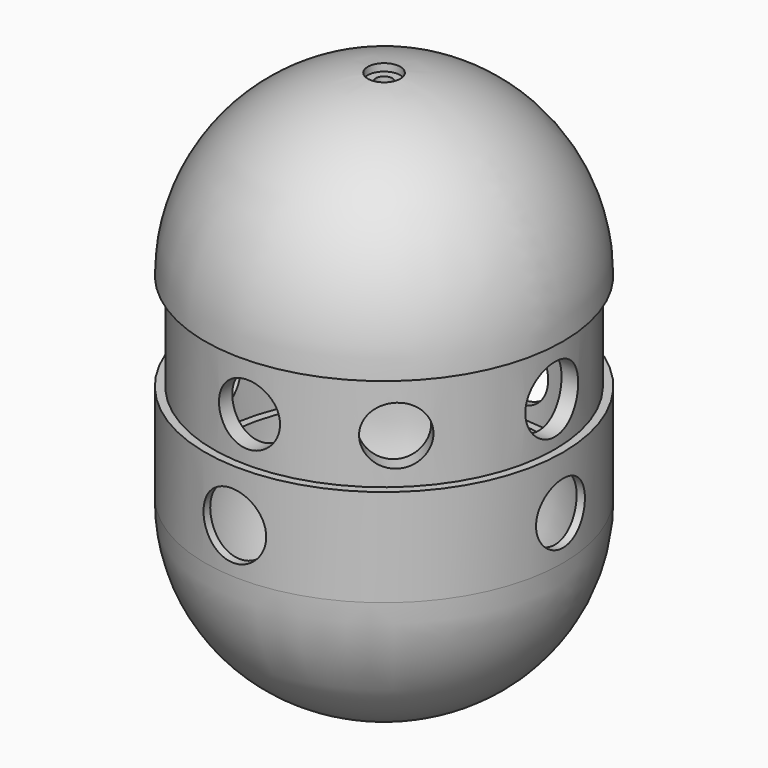
from build123d import *

# Parameters (mm, degrees)
SKETCH008_R             = 8.118268
PAD004_DEPTH            = 51.5
SKETCH007_R             = 7.1376
PAD003_DEPTH            = 48
SKETCH004_R             = 7.5
PAD_DEPTH               = 49
CUT_PLACEMENT_ANGLE     = 45
CUT002_PLACEMENT_ANGLE  = 45
SKETCH009_R             = 8.060022
PAD005_DEPTH            = 58
SKETCH006_R             = 8.011536
PAD002_DEPTH            = 49
SKETCH005_R             = 7.5
PAD001_DEPTH            = 53
BODY001_PLACEMENT_ANGLE = 180


with BuildPart() as body008:
    # Sketch008 → Pad004 (new body, symmetric)
    with BuildSketch(Plane.YZ):
        with Locations((0, -60.16111)):
            Circle(SKETCH008_R)
    extrude(amount=PAD004_DEPTH, both=True)


with BuildPart() as body008_1:
    # Body008 placement: moved
    add(body008.part.moved(Location((0, 0, -2))))


with BuildPart() as body007:
    # Sketch007 → Pad003 (new body)
    with BuildSketch(Plane.XZ):
        with Locations((-2.232729, -35.87962)):
            Circle(SKETCH007_R)
    extrude(amount=PAD003_DEPTH)


with BuildPart() as body007_1:
    # Body007 placement: moved
    add(body007.part.moved(Location((0, 0, -1))))


with BuildPart() as body004:
    # Sketch004 → Pad (new body, symmetric)
    with BuildSketch(Plane.XZ):
        with Locations((0, 9.971258)):
            Circle(SKETCH004_R)
    extrude(amount=PAD_DEPTH, both=True)


with BuildPart() as body004_1:
    # Body004 placement: moved
    add(body004.part.moved(Location((0, 0, -23))))


with BuildPart() as cut004:
    # Sketch → Revolution (revolve)
    with BuildSketch(Plane.XZ):
        with BuildLine():
            ThreePointArc((38, 12.649111), (24.22845, 31.890159), (2, 40))
            Line((2, 42), (2, 40))
            Line((2, 42), (4, 42))
            Line((4, 43.817805), (4, 42))
            ThreePointArc((44, 0), (32.496154, 29.664794), (4, 43.817805))
            Line((44, 0), (42, 0))
            Line((42, -24), (42, 0))
            Line((42, -24), (38, -24))
            Line((38, -24), (38, 12.649111))
        make_face()
    revolve(axis=Axis((0, 0, 0), (0, 0, 1)))

    # Cut: cut Body004
    add(body004_1.part, mode=Mode.SUBTRACT)


with BuildPart() as cut004_1:
    # Cut placement: moved
    add(cut004.part.moved(Location((0, 0, -24))).rotate(Axis((0, 0, -24), (0, 0, -1)), CUT_PLACEMENT_ANGLE))

    # Cut002: cut Body007
    add(body007_1.part, mode=Mode.SUBTRACT)


with BuildPart() as cut004_2:
    # Cut002 placement: moved
    add(cut004_1.part.moved(Location((0, 0, -25))).rotate(Axis((0, 0, -25), (0, 0, 1)), CUT002_PLACEMENT_ANGLE))

    # Cut004: cut Body008
    add(body008_1.part, mode=Mode.SUBTRACT)


with BuildPart() as body009:
    # Sketch009 → Pad005 (new body)
    with BuildSketch(Plane.XZ):
        with Locations((-2.839969, -86.063713)):
            Circle(SKETCH009_R)
    extrude(amount=-PAD005_DEPTH)


with BuildPart() as body009_1:
    # Body009 placement: moved
    add(body009.part.moved(Location((2, 0, 0))))


with BuildPart() as body006:
    # Sketch006 → Pad002 (new body)
    with BuildSketch(Plane.XZ):
        with Locations((-2.095199, -37.949738)):
            Circle(SKETCH006_R)
    extrude(amount=PAD002_DEPTH)


with BuildPart() as body006_1:
    # Body006 placement: moved
    add(body006.part.moved(Location((0, 0, -23))))


with BuildPart() as body005:
    # Sketch005 → Pad001 (new body, symmetric)
    with BuildSketch(Plane.YZ):
        with Locations((0, -15.138527)):
            Circle(SKETCH005_R)
    extrude(amount=PAD001_DEPTH, both=True)


with BuildPart() as body005_1:
    # Body005 placement: moved
    add(body005.part.moved(Location((0, 0, -22))))


with BuildPart() as cut005:
    # Sketch001 → Revolution001 (revolve)
    with BuildSketch(Plane.XZ):
        with BuildLine():
            Line((44, -4), (44, 19.943846))
            ThreePointArc((44, 19.943846), (32.587578, 49.143804), (4, 62.013586))
            Line((4, 62.013586), (4, 60))
            Line((4, 60), (1.986456, 60))
            Line((1.986456, 60), (1.999995, 58))
            ThreePointArc((40, 20.000009), (29.018856, 47.018866), (1.999995, 58))
            Line((42, 20), (40, 20.000009))
            Line((42, 0), (42, 20))
            Line((42, -4), (42, 0))
            Line((44, -4), (42, -4))
        make_face()
    revolve(axis=Axis((0, 0, 0), (0, 0, 1)))


with BuildPart() as cut005_1:
    # Body001 placement: moved
    add(cut005.part.moved(Location((0, 0, -28))).rotate(Axis((0, 0, -28), (1, 0, 0)), BODY001_PLACEMENT_ANGLE))

    # Cut001: cut Body005
    add(body005_1.part, mode=Mode.SUBTRACT)


with BuildPart() as cut005_2:
    # Cut001 placement: moved
    add(cut005_1.part.moved(Location((0, 0, -24))))

    # Cut003: cut Body006
    add(body006_1.part, mode=Mode.SUBTRACT)


with BuildPart() as cut005_3:
    # Cut003 placement: moved
    add(cut005_2.part.moved(Location((0, 0, -25))))

    # Cut005: cut Body009
    add(body009_1.part, mode=Mode.SUBTRACT)


solid = Compound([cut004_2.part, cut005_3.part])
